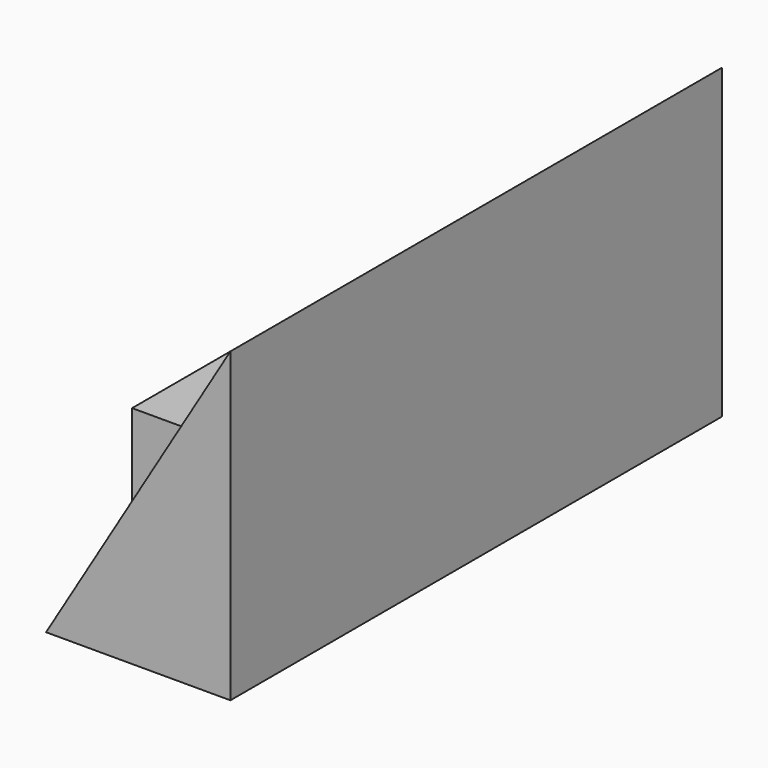
from build123d import *

# Parameters (mm, degrees)
F1_DEPTH = 63.5
F2_DEPTH = 63.5
F3_DEPTH = 41.275
F4_DEPTH = 41.275


with BuildPart() as f1:
    # F0 (on Front) → F1 (new body)
    with BuildSketch(Plane.XZ):
        Polygon((0, 7.703279), (-19.05, -24.046721), (19.05, -24.046721), (19.05, 39.453279), align=None)
    extrude(amount=F1_DEPTH)

    # F1_face (on face) → F2 (join)
    with BuildSketch(Plane(origin=(6.35, 0, -2.880054), x_dir=(1, 0, 0), z_dir=(0, 1, 0))):
        Polygon((12.7, 21.166667), (-25.4, 21.166667), (12.7, -42.333333), align=None)
    extrude(amount=F2_DEPTH)

    # F0 (on Front) → F3 (join)
    with BuildSketch(Plane.XZ):
        Polygon((-19.05, 7.703279), (-19.05, -24.046721), (0, 7.703279), align=None)
    extrude(amount=F3_DEPTH)

    # F3_face (on face) → F4 (join)
    with BuildSketch(Plane(origin=(-12.7, 0, -2.880054), x_dir=(1, 0, 0), z_dir=(0, 1, 0))):
        Polygon((-6.35, -10.583333), (12.7, -10.583333), (-6.35, 21.166667), align=None)
    extrude(amount=F4_DEPTH)


solid = f1.part
